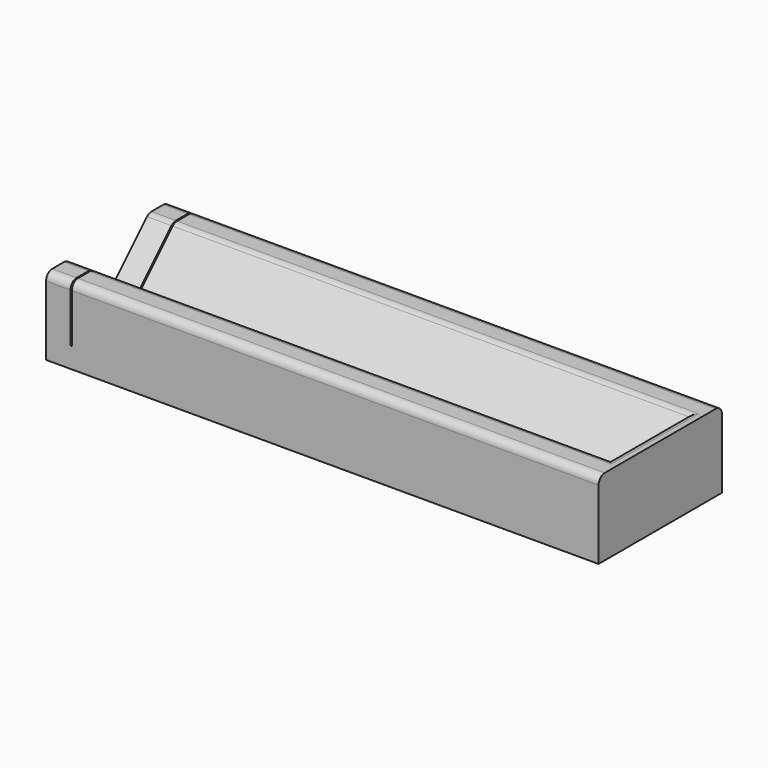
from build123d import *

# Parameters (mm, degrees)
F1_DEPTH = 210
F2_W     = 0.5
F2_H     = 10
F2_H_2   = 68.033398215
F3_DEPTH = 22
F4_R     = 0.5
F6_DEPTH = 5
F7_R     = 3


with BuildPart() as f1:
    # F0 (on Right) → F1 (new body)
    with BuildSketch(Plane.YZ):
        Polygon((30, 0), (30, 30), (20, 30), (1, 11), (1, 9), (-1, 9), (-1, 11), (-20, 30), (-30, 30), (-30, 0), align=None)
    extrude(amount=F1_DEPTH)

    # F2 (on face) → F3 (cut)
    with BuildSketch(Plane.XY.offset(30)):
        with Locations((9.75, 25)):
            Rectangle(F2_W, F2_H)
        with Locations((9.75, -14.0166991075)):
            Rectangle(F2_W, F2_H_2)
    extrude(amount=-F3_DEPTH, mode=Mode.SUBTRACT)

    # F4
    f4_edges = [f1.edges().sort_by_distance(p)[0] for p in [
        (110, -1, 9),
        (110, 1, 9),
        (4.75, -1, 9),
        (4.75, 1, 9),
    ]]
    fillet(f4_edges, radius=F4_R)

    # F5 (on face) → F6 (join)
    with BuildSketch(Plane.YZ.offset(210)):
        with BuildLine():
            Line((20, 30), (-20, 30))
            Line((-20, 30), (-1, 11))
            Line((-1, 11), (-1, 9.5))
            ThreePointArc((-1, 9.5), (-0.8535533906, 9.1464466094), (-0.5, 9))
            Line((-0.5, 9), (0.5, 9))
            ThreePointArc((0.5, 9), (0.8535533906, 9.1464466094), (1, 9.5))
            Line((1, 9.5), (1, 11))
            Line((1, 11), (20, 30))
        make_face()
        with BuildLine():
            Line((-30, 30), (-30, 0))
            Line((-30, 0), (30, 0))
            Line((30, 0), (30, 30))
            Line((30, 30), (20, 30))
            Line((20, 30), (1, 11))
            Line((1, 11), (1, 9.5))
            ThreePointArc((1, 9.5), (0.8535533906, 9.1464466094), (0.5, 9))
            Line((0.5, 9), (-0.5, 9))
            ThreePointArc((-0.5, 9), (-0.8535533906, 9.1464466094), (-1, 9.5))
            Line((-1, 9.5), (-1, 11))
            Line((-1, 11), (-20, 30))
            Line((-20, 30), (-30, 30))
        make_face()
    extrude(amount=F6_DEPTH)

    # F7
    f7_edges = [f1.edges().sort_by_distance(p)[0] for p in [
        (112.5, 30, 30),
        (4.75, 30, 30),
        (112.5, -30, 30),
        (4.75, -30, 30),
        (110, -20, 30),
        (4.75, -20, 30),
        (4.75, 20, 30),
        (110, 20, 30),
        (210, 0, 30),
    ]]
    fillet(f7_edges, radius=F7_R)


solid = f1.part
